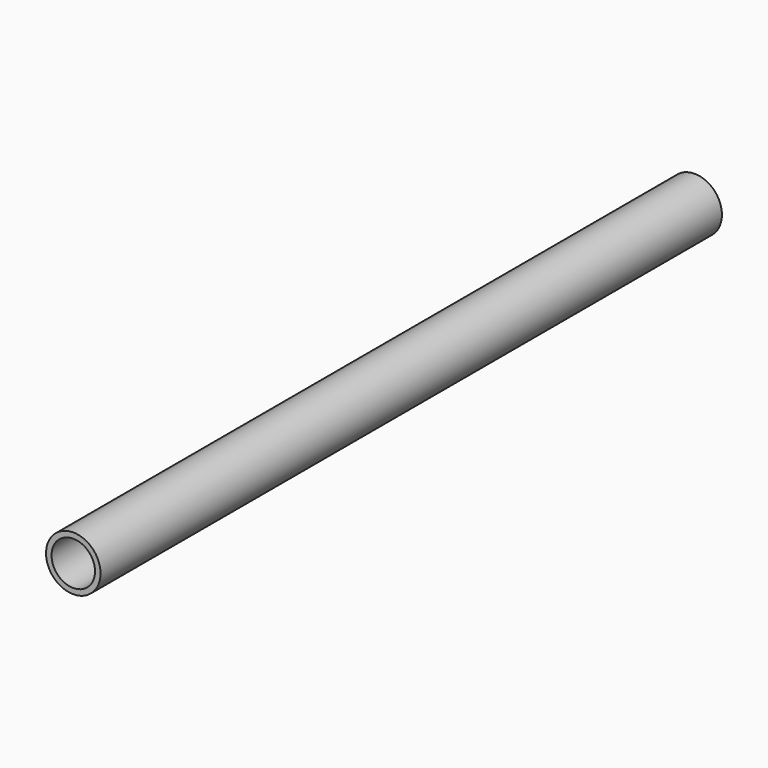
from build123d import *

# Parameters (mm, degrees)
CYLINDER_R          = 16.7005
CYLINDER_DEPTH      = 476.25
CYLINDER_ROLL_ANGLE = 90
THICKNESS001_T      = -3.3782


with BuildPart() as part:
    # Cylinder → Cylinder (new body)
    with BuildSketch(Plane.XY):
        Circle(CYLINDER_R)
    extrude(amount=CYLINDER_DEPTH)


with BuildPart() as part_1:
    # Cylinder roll: moved
    add(part.part.rotate(Axis((0, 0, 0), (1, 0, 0)), CYLINDER_ROLL_ANGLE))


with BuildPart() as part_2:
    # Cylinder placement: moved
    add(part_1.part)

    # Thickness001
    thickness001_openings = [part_2.faces().sort_by_distance(p)[0] for p in [
        (0, 0, 0),
        (0, -476.25, 0),
    ]]
    offset(amount=THICKNESS001_T, openings=thickness001_openings)


solid = part_2.part
